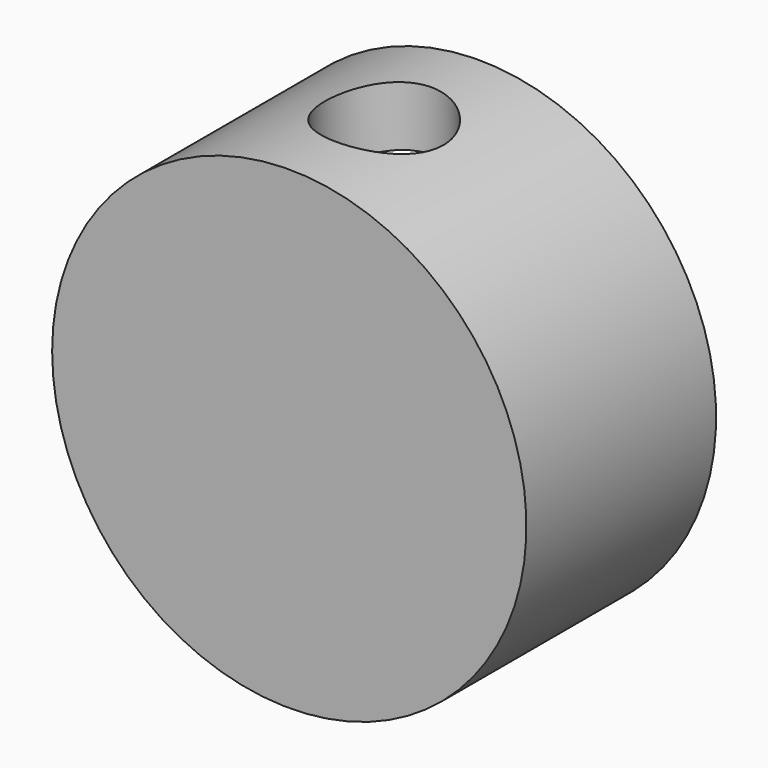
from build123d import *

# Parameters (mm, degrees)
F0_W     = 25.4
F0_H     = 25.4
F1_DEPTH = 12.7
F2_R     = 3.175
F3_DEPTH = 25.4
F4_R     = 12.7
F5_DEPTH = 25.4
F6_R     = 9.525
F7_DEPTH = 9.525


with BuildPart() as f1:
    # F0 (on Front) → F1 (new body)
    with BuildSketch(Plane.XZ):
        Rectangle(F0_W, F0_H)
    extrude(amount=F1_DEPTH)

    # F2 (on face) → F3 (cut)
    with BuildSketch(Plane.XY.offset(12.7)):
        with Locations((0, -6.35)):
            Circle(F2_R)
    extrude(amount=-F3_DEPTH, mode=Mode.SUBTRACT)

    # F4 (on face) → F5 (intersect)
    with BuildSketch(Plane(origin=(0, 0, 0), x_dir=(-1, 0, 0), z_dir=(0, 1, 0))):
        Circle(F4_R)
    extrude(amount=-F5_DEPTH, mode=Mode.INTERSECT)

    # F6 (on face) → F7 (cut)
    with BuildSketch(Plane(origin=(0, 0, 0), x_dir=(-1, 0, 0), z_dir=(0, 1, 0))):
        Circle(F6_R)
    extrude(amount=-F7_DEPTH, mode=Mode.SUBTRACT)


solid = f1.part
